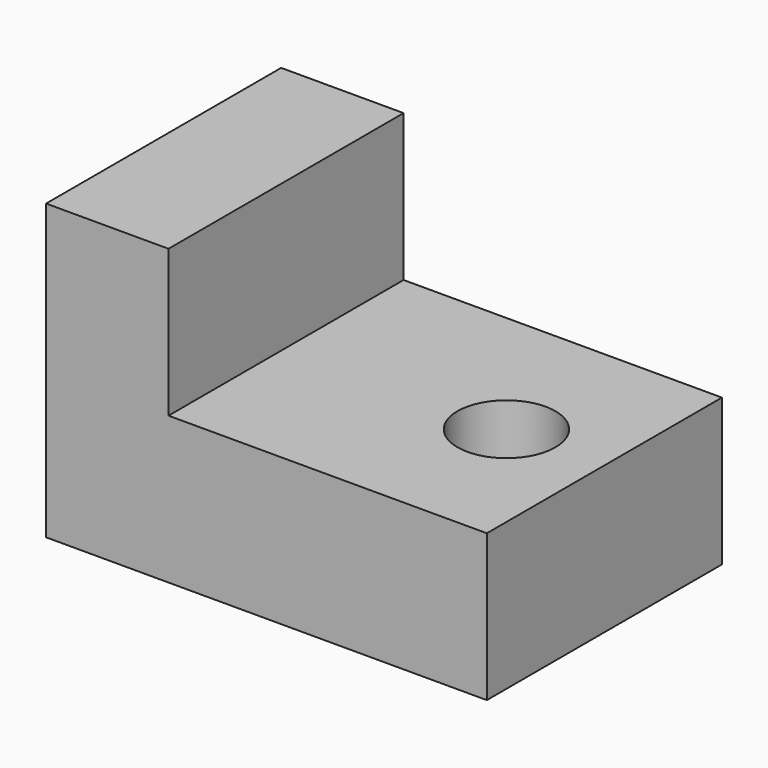
from build123d import *

# Parameters (mm, degrees)
F1_DEPTH = 76.2
F3_D     = 50.8


with BuildPart() as f1:
    # F0 (on Front) → F1 (new body, symmetric)
    with BuildSketch(Plane.XZ):
        Polygon((-50.8, 76.2), (-114.3, 76.2), (-114.3, -76.2), (114.3, -76.2), (114.3, 0), (-50.8, 0), align=None)
    extrude(amount=F1_DEPTH, both=True)

    # F3 (through all)
    with Locations(Plane.XY):
        with Locations((63.5, 0)):
            Hole(F3_D / 2)


solid = f1.part
